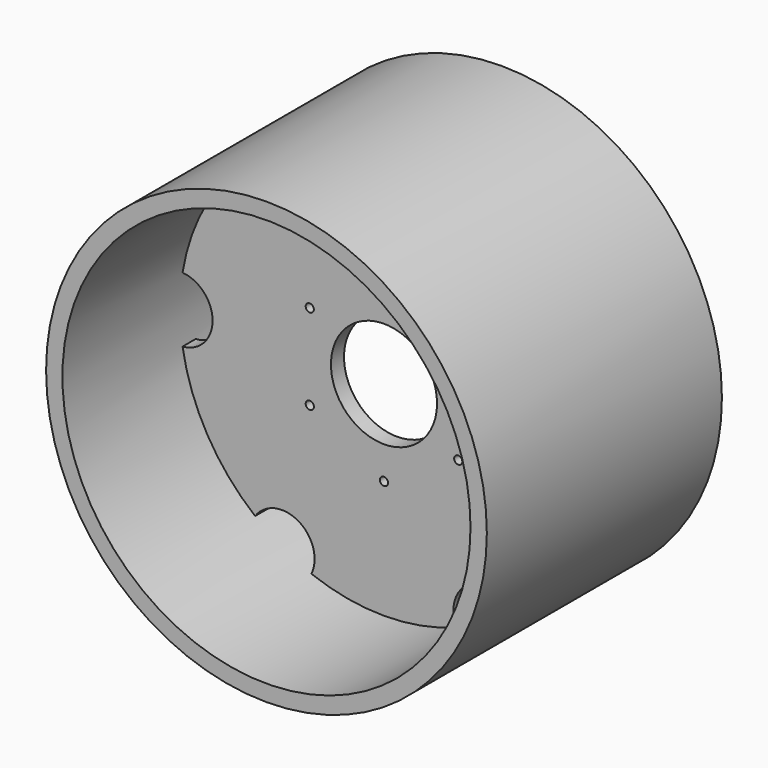
from build123d import *

# Parameters (mm, degrees)
F0_R     = 250
F0_R_2   = 5
F0_R_3   = 65
F1_DEPTH = 10
F3_DEPTH = 20.001
F4_R     = 270
F4_R_2   = 250
F5_DEPTH = 180


with BuildPart() as f1:
    # F0 (on Front) → F1 (new body, symmetric)
    with BuildSketch(Plane.XZ):
        Circle(F0_R)
        with Locations((-90.932667, -52.5)):
            Circle(F0_R_2, mode=Mode.SUBTRACT)
        with Locations((0, -105)):
            Circle(F0_R_2, mode=Mode.SUBTRACT)
        with Locations((90.932667, -52.5)):
            Circle(F0_R_2, mode=Mode.SUBTRACT)
        with Locations((-90.932667, 52.5)):
            Circle(F0_R_2, mode=Mode.SUBTRACT)
        Circle(F0_R_3, mode=Mode.SUBTRACT)
        with Locations((90.932667, 52.5)):
            Circle(F0_R_2, mode=Mode.SUBTRACT)
        with Locations((0, 105)):
            Circle(F0_R_2, mode=Mode.SUBTRACT)
    extrude(amount=F1_DEPTH, both=True)

    # F2 (on face) → F3 (cut, through all)
    with BuildSketch(Plane.XZ.offset(10)):
        with BuildLine():
            ThreePointArc((157.929987, 193.799172), (125, 216.506351), (88.870013, 233.670967))
            ThreePointArc((88.870013, 233.670967), (105, 181.865335), (157.929987, 193.799172))
        make_face()
        with BuildLine():
            ThreePointArc((250, 0), (249.198716, 20), (246.8, 39.871795))
            ThreePointArc((246.8, 39.871795), (210, 0), (246.8, -39.871795))
            ThreePointArc((246.8, -39.871795), (249.198716, -20), (250, 0))
        make_face()
        with BuildLine():
            ThreePointArc((88.870013, -233.670967), (125, -216.506351), (157.929987, -193.799172))
            ThreePointArc((157.929987, -193.799172), (105, -181.865335), (88.870013, -233.670967))
        make_face()
        with BuildLine():
            ThreePointArc((-88.870013, -233.670967), (-105, -181.865335), (-157.929987, -193.799172))
            ThreePointArc((-157.929987, -193.799172), (-125, -216.506351), (-88.870013, -233.670967))
        make_face()
        with BuildLine():
            ThreePointArc((-246.8, -39.871795), (-210, 0), (-246.8, 39.871795))
            ThreePointArc((-246.8, 39.871795), (-250, 0), (-246.8, -39.871795))
        make_face()
        with BuildLine():
            ThreePointArc((-157.929987, 193.799172), (-105, 181.865335), (-88.870013, 233.670967))
            ThreePointArc((-88.870013, 233.670967), (-125, 216.506351), (-157.929987, 193.799172))
        make_face()
    extrude(amount=-F3_DEPTH, mode=Mode.SUBTRACT)

    # F4 (on face) → F5 (join, symmetric)
    with BuildSketch(Plane.XZ.offset(10)):
        Circle(F4_R)
        Circle(F4_R_2, mode=Mode.SUBTRACT)
    extrude(amount=F5_DEPTH, both=True)


solid = f1.part
